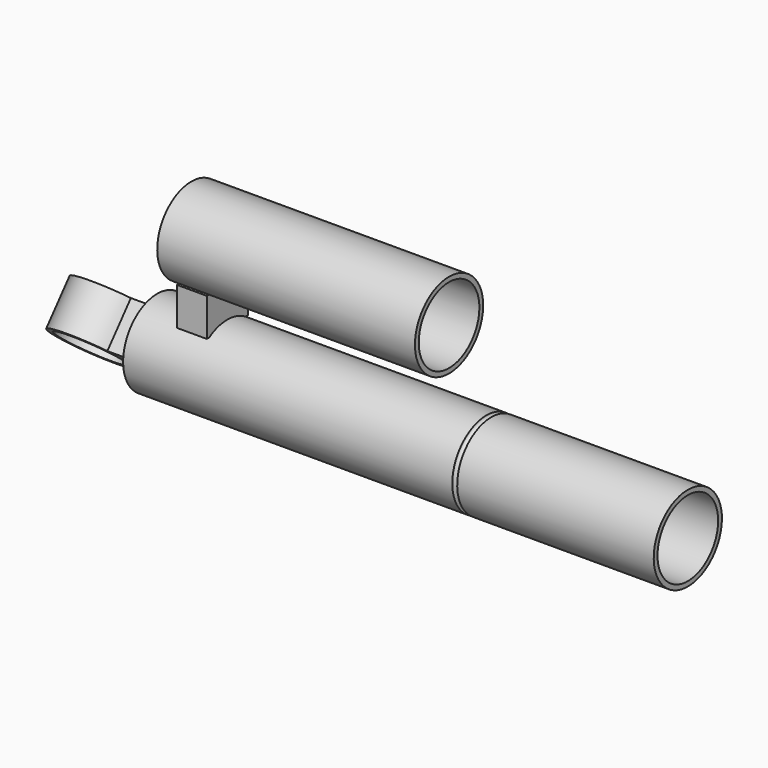
from build123d import *

# Parameters (mm, degrees)
F4_W      = 15.8
F4_H      = 20
F5_DEPTH  = 13.5
F7_DEPTH  = 20.1
F8_R      = 17.1
F9_DEPTH  = 25
F11_DEPTH = 24


with BuildPart() as f1:
    # F0 (on Front) → F1 (revolve)
    with BuildSketch(Plane.XZ):
        with BuildLine():
            Line((28.9, 20.0906451762), (308.9, 20))
            Line((308.9, 20), (308.9, 22.5))
            Line((308.9, 22.5), (205.2, 22.5))
            ThreePointArc((205.2, 22.5), (203.9, 21.2), (202.6, 22.5))
            Line((202.6, 22.5), (28.9, 22.5))
            Line((28.9, 22.5), (28.9, 20.0906451762))
        make_face()
        with BuildLine():
            ThreePointArc((26.400000374, 0), (27.0246011146, 10.1231447503), (28.9, 20.0906451762))
            Line((28.9, 20.0906451762), (28.9, 22.5))
            ThreePointArc((28.9, 22.5), (25.1650624277, 11.5244305716), (23.9, 0))
            Line((23.9, 0), (26.400000374, 0))
        make_face()
    revolve(axis=Axis((168.9, 0, 0), (1, 0, 0)))



with BuildPart() as f3:
    # F2 (on Front) → F3 (revolve)
    with BuildSketch(Plane.XZ):
        Polygon((49.4, 78), (182.9, 78), (182.9, 80.5), (46.9, 80.5), (46.9, 58), (49.4, 58), align=None)
    revolve(axis=Axis((114.9, 0, 58), (1, 0, 0)))


with BuildPart() as f1_1:
    add(f1.part)

    add(f3.part)  # F5 merges F3
    # F4 (on Front) → F5 (join, symmetric)
    with BuildSketch(Plane.XZ):
        with Locations((58, 29)):
            Rectangle(F4_W, F4_H)
    extrude(amount=F5_DEPTH, both=True)



with BuildPart() as f7:
    # F6 (on Right) → F7 (new body, symmetric)
    with BuildSketch(Plane.YZ):
        Polygon((-7.595916344, 22.1429911009), (-23.095916344, 3.8195088991), (7.595916344, -22.1429911009), (23.095916344, -3.8195088991), align=None)
    extrude(amount=F7_DEPTH, both=True)

    # F8 (on face) → F9 (cut)
    with BuildSketch(Plane(origin=(0, 7.75, 9.1617411009), x_dir=(1, 0, 0), z_dir=(0, 0.6458333333, 0.7634784251))):
        with BuildLine():
            ThreePointArc((-1.76e-08, 20.1), (14.2128462956, 14.2128463081), (20.1, 0))
            Line((20.1, 0), (20.1, 20.1))
            Line((20.1, 20.1), (-1.76e-08, 20.1))
        make_face()
        with BuildLine():
            ThreePointArc((-20.1, -7.91e-08), (-14.212846336, 14.2128462677), (-1.76e-08, 20.1))
            Line((-1.76e-08, 20.1), (-20.1, 20.1))
            Line((-20.1, 20.1), (-20.1, -7.91e-08))
        make_face()
        with BuildLine():
            Line((-20.1, -20.1), (4.8e-08, -20.1))
            ThreePointArc((4.8e-08, -20.1), (-14.2128462569, -14.2128463468), (-20.1, -7.91e-08))
            Line((-20.1, -7.91e-08), (-20.1, -20.1))
        make_face()
        with BuildLine():
            Line((20.1, -20.1), (20.1, 0))
            ThreePointArc((20.1, 0), (14.2128463188, -14.2128462849), (4.8e-08, -20.1))
            Line((4.8e-08, -20.1), (20.1, -20.1))
        make_face()
        Circle(F8_R)
    extrude(amount=-F9_DEPTH, mode=Mode.SUBTRACT)


with BuildPart() as f1_2:
    add(f1_1.part)

    add(f7.part)  # F11 merges F7
    # F10 (on face) → F11 (join)
    with BuildSketch(Plane(origin=(0, 7.75, 9.1617411009), x_dir=(1, 0, 0), z_dir=(0, 0.6458333333, 0.7634784251))):
        with BuildLine():
            Line((28.1248255805, 12), (16.1248255805, 12))
            ThreePointArc((16.1248255805, 12), (19.0803432119, 6.320641021), (20.1, 0))
            ThreePointArc((20.1, 0), (19.0803432119, -6.320641021), (16.1248255805, -12))
            Line((16.1248255805, -12), (28.1248255805, -12))
            Line((28.1248255805, -12), (28.1248255805, 12))
        make_face()
    extrude(amount=-F11_DEPTH)


solid = f1_2.part
